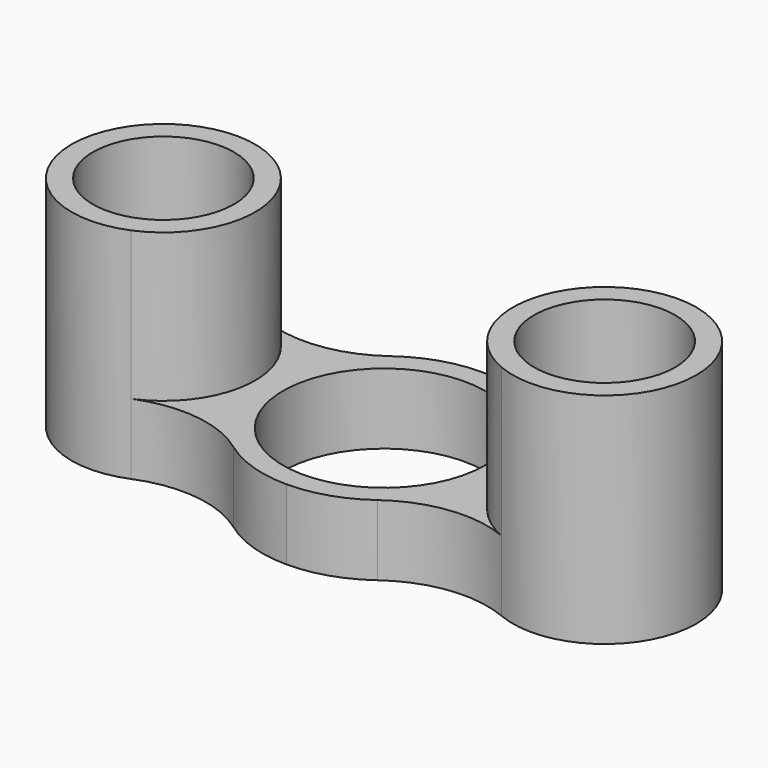
from build123d import *

# Parameters (mm, degrees)
F1_DEPTH = 31
F2_R     = 14.3
F2_R_2   = 10
F3_DEPTH = 31.001
F4_W     = 33
F4_H     = 80
F5_DEPTH = 21
F7_START = 10
F6_R     = 22.5
F6_R_2   = 13
F7_DEPTH = 21.001


with BuildPart() as f1:
    # F0 (on Top) → F1 (new body)
    with BuildSketch(Plane.XY):
        with BuildLine():
            ThreePointArc((-10.1844, 13.9226612628), (-17.9705989063, 10.8562655965), (-26.2597627119, 12.0040631375))
            ThreePointArc((-26.2597627119, 12.0040631375), (-44.25, 0), (-26.2597627119, -12.0040631375))
            ThreePointArc((-26.2597627119, -12.0040631375), (-17.9705989063, -10.8562655965), (-10.1844, -13.9226612628))
            ThreePointArc((-10.1844, -13.9226612628), (-5.3570791116, -16.3970791116), (0, -17.25))
            ThreePointArc((0, -17.25), (5.3570791116, -16.3970791116), (10.1844, -13.9226612628))
            ThreePointArc((10.1844, -13.9226612628), (17.9705989063, -10.8562655965), (26.2597627119, -12.0040631375))
            ThreePointArc((26.2597627119, -12.0040631375), (44.25, 0), (26.2597627119, 12.0040631375))
            ThreePointArc((26.2597627119, 12.0040631375), (17.9705989063, 10.8562655965), (10.1844, 13.9226612628))
            ThreePointArc((10.1844, 13.9226612628), (5.3570791116, 16.3970791116), (0, 17.25))
            ThreePointArc((0, 17.25), (-5.3570791116, 16.3970791116), (-10.1844, 13.9226612628))
        make_face()
    extrude(amount=F1_DEPTH)

    # F2 (on Top) → F3 (cut, through all)
    with BuildSketch(Plane.XY):
        Circle(F2_R)
        with Locations((-31.25, 0)):
            Circle(F2_R_2)
        with Locations((31.25, 0)):
            Circle(F2_R_2)
    extrude(amount=F3_DEPTH, mode=Mode.SUBTRACT)

    # F4 (on face) → F5 (cut)
    with BuildSketch(Plane.XY.offset(31)):
        Rectangle(F4_W, F4_H)
    extrude(amount=-F5_DEPTH, mode=Mode.SUBTRACT)

    # F6 (on Top) → F7 (cut)
    with BuildSketch(Plane.XY.offset(F7_START)):
        with Locations((-31.25, 0)):
            Circle(F6_R)
        with Locations((-31.25, 0)):
            Circle(F6_R_2, mode=Mode.SUBTRACT)
        with Locations((31.25, 0)):
            Circle(F6_R)
        with Locations((31.25, 0)):
            Circle(F6_R_2, mode=Mode.SUBTRACT)
    extrude(amount=F7_DEPTH, mode=Mode.SUBTRACT)


solid = f1.part
